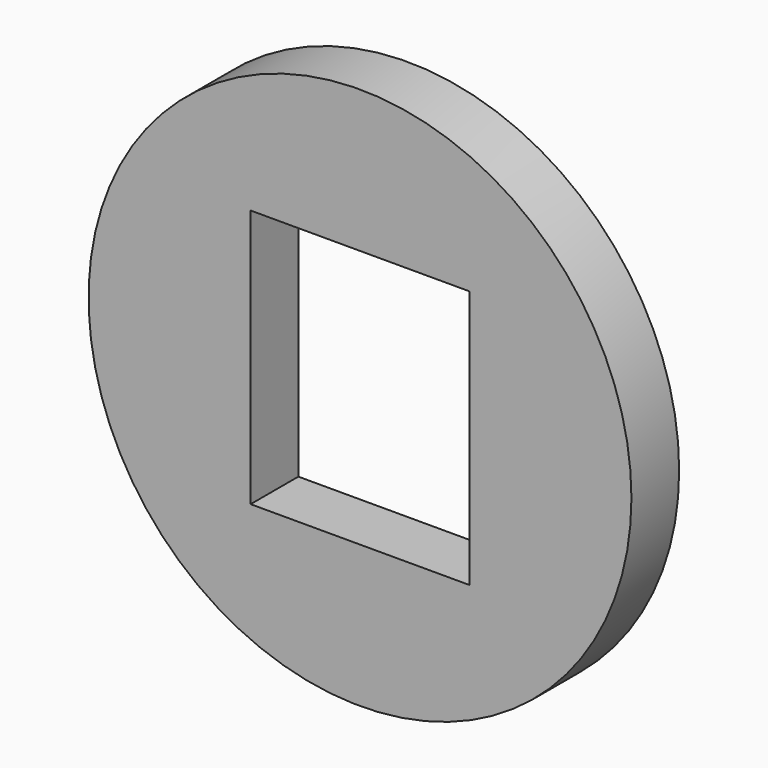
from build123d import *

# Parameters (mm, degrees)
F0_R     = 13.649701
F0_W     = 11
F0_H     = 13
F1_DEPTH = 3


with BuildPart() as f1:
    # F0 (on Front) → F1 (new body)
    with BuildSketch(Plane.XZ):
        Circle(F0_R)
        Rectangle(F0_W, F0_H, mode=Mode.SUBTRACT)
    extrude(amount=F1_DEPTH)


solid = f1.part
